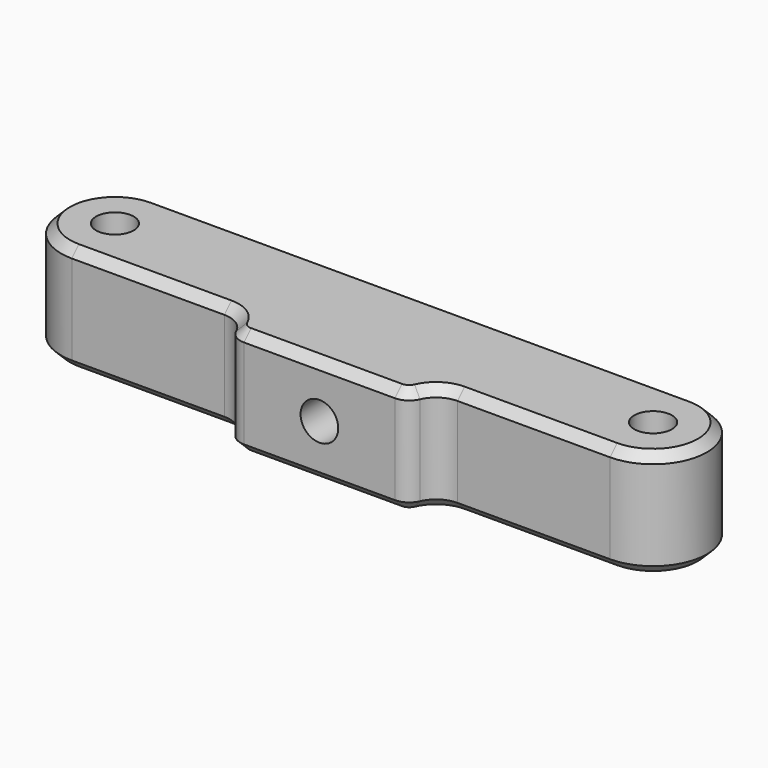
from build123d import *

# Parameters (mm, degrees)
F0_R     = 2.1
F1_DEPTH = 12
F2_R     = 2.1
F3_DEPTH = 15.001
F4_SIZE  = 1


with BuildPart() as f1:
    # F0 (on Top) → F1 (new body)
    with BuildSketch(Plane.XY):
        with BuildLine():
            Line((-8.417424, -9), (8.417424, -9))
            ThreePointArc((8.417424, -9), (9.512869, -8.67332), (10.250455, -7.8))
            ThreePointArc((10.250455, -7.8), (11.356832, -6.49002), (13, -6))
            Line((13, -6), (30, -6))
            ThreePointArc((30, -6), (36, 0), (30, 6))
            Line((30, 6), (-30, 6))
            ThreePointArc((-30, 6), (-36, 0), (-30, -6))
            Line((-30, -6), (-13, -6))
            ThreePointArc((-13, -6), (-11.356832, -6.49002), (-10.250455, -7.8))
            ThreePointArc((-10.250455, -7.8), (-9.512869, -8.67332), (-8.417424, -9))
        make_face()
        with Locations((-30, 0)):
            Circle(F0_R, mode=Mode.SUBTRACT)
        with Locations((30, 0)):
            Circle(F0_R, mode=Mode.SUBTRACT)
    extrude(amount=F1_DEPTH)

    # F2 (on face) → F3 (cut, through all)
    with BuildSketch(Plane(origin=(0, 6, 0), x_dir=(-1, 0, 0), z_dir=(0, 1, 0))):
        with Locations((0, 6)):
            Circle(F2_R)
    extrude(amount=-F3_DEPTH, mode=Mode.SUBTRACT)

    # F4
    f4_edges = [f1.edges().sort_by_distance(p)[0] for p in [
        (0, -9, 12),
        (0, 6, 0),
    ]]
    chamfer(f4_edges, length=F4_SIZE)


solid = f1.part
